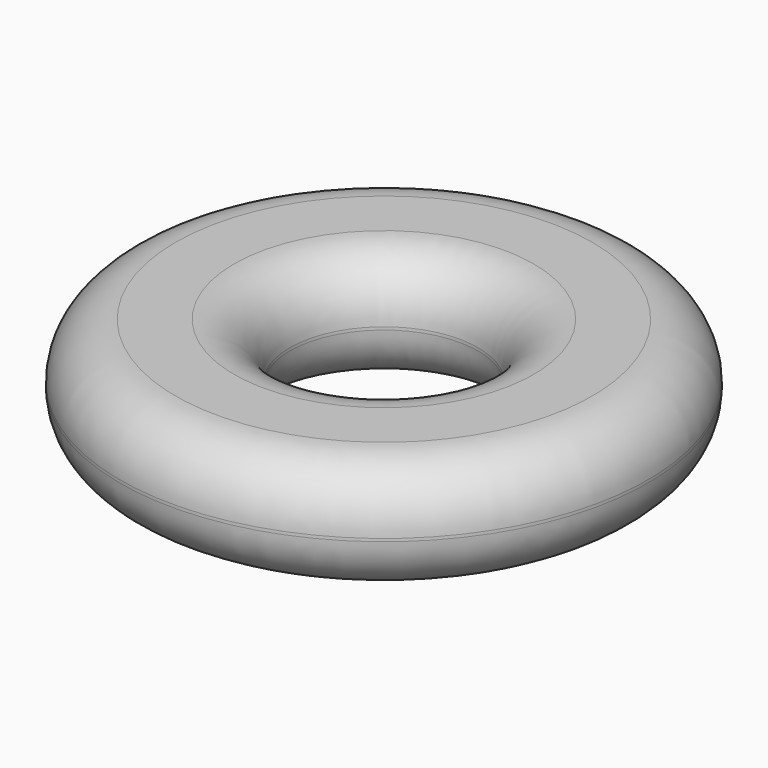
from build123d import *

# Parameters (mm, degrees)
F0_W = 21.701265
F0_H = 14.59218
F2_R = 7.112


with BuildPart() as f1:
    # F0 (on Front) → F1 (revolve)
    with BuildSketch(Plane.XZ):
        with Locations((-22.879501, 23.46368)):
            Rectangle(F0_W, F0_H)
    revolve(axis=Axis((0, 0, -15.308093), (0, 0, -1)))

    # F2
    f2_edges = [f1.edges().sort_by_distance(p)[0] for p in [
        (33.730134, 0, 30.75977),
        (33.730134, 0, 16.16759),
        (-33.730134, 0, 23.46368),
        (12.028869, 0, 16.16759),
        (12.028869, 0, 30.75977),
        (-12.028869, 0, 23.46368),
    ]]
    fillet(f2_edges, radius=F2_R)


solid = f1.part
